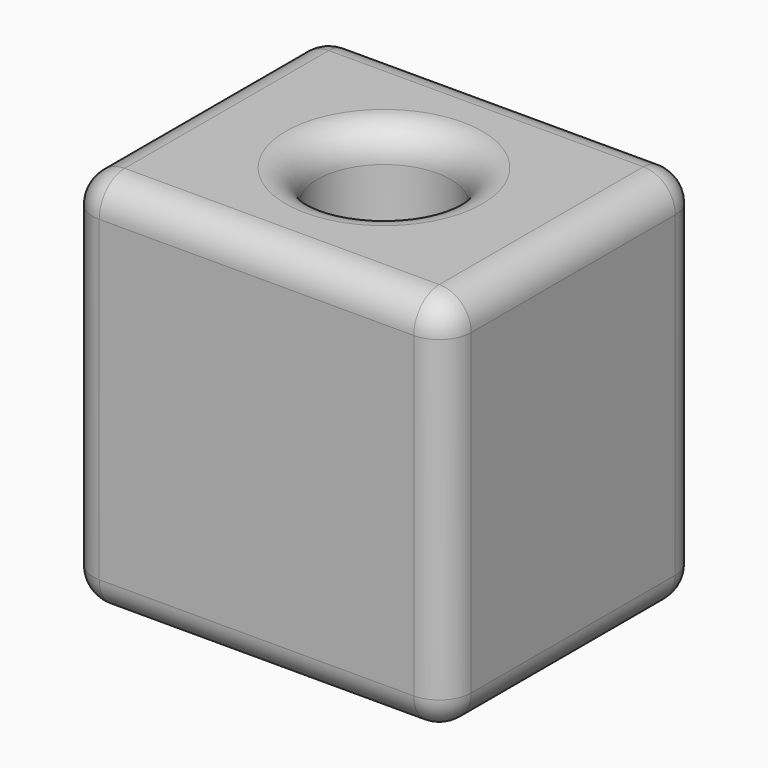
from build123d import *

# Parameters (mm, degrees)
F0_W     = 60.2922588587
F0_H     = 60.7222765684
F1_DEPTH = 50.8
F2_R     = 10.5951307647
F3_DEPTH = 60.7222765684
F4_R     = 5.08
F5_R     = 5.08


with BuildPart() as f1:
    # F0 (on Front) → F1 (new body)
    with BuildSketch(Plane.XZ):
        with Locations((30.1461294293, 30.3611382842)):
            Rectangle(F0_W, F0_H)
    extrude(amount=F1_DEPTH)

    # F2 (on face) → F3 (cut, through all)
    with BuildSketch(Plane.XY.offset(60.7222765684)):
        with Locations((30.1461294293, -25.4)):
            Circle(F2_R)
    extrude(amount=-F3_DEPTH, mode=Mode.SUBTRACT)

    # F4
    f4_edges = [f1.edges().sort_by_distance(p)[0] for p in [
        (60.292259, 0, 30.361138),
    ]]
    fillet(f4_edges, radius=F4_R)

    # F5
    f5_edges = [f1.edges().sort_by_distance(p)[0] for p in [
        (27.606129, 0, 60.722277),
        (27.606129, 0, 0),
        (0, 0, 30.361138),
        (19.550999, -25.4, 60.722277),
        (30.146129, -50.8, 60.722277),
        (0, -25.4, 60.722277),
        (0, -50.8, 30.361138),
        (0, -25.4, 0),
        (60.292259, -27.94, 0),
        (60.292259, -5.08, 30.361138),
        (60.292259, -50.8, 30.361138),
        (60.292259, -27.94, 60.722277),
        (58.804361, -1.487898, 0),
        (30.146129, -50.8, 0),
        (19.550999, -25.4, 0),
    ]]
    fillet(f5_edges, radius=F5_R)


solid = f1.part
